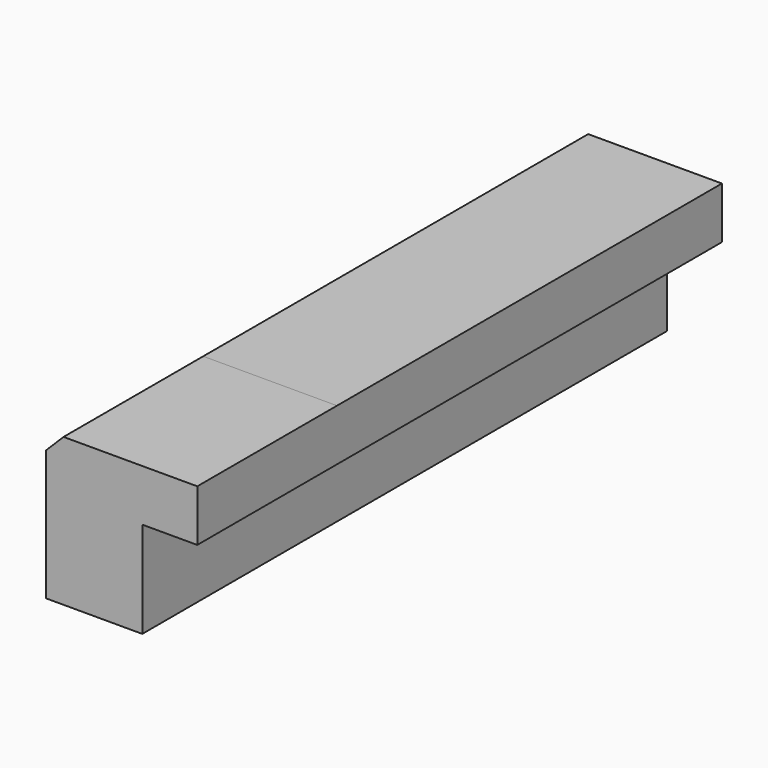
from build123d import *

# Parameters (mm, degrees)
F1_DEPTH = 25.4
F2_SIZE  = 2.54
F3_DEPTH = 70.0024


with BuildPart() as f1:
    # F0 (on Front) → F1 (new body)
    with BuildSketch(Plane.XZ):
        Polygon((-34.545804, 37.978911), (-34.545804, 16.473787), (-20.550404, 16.473787), (-20.550404, 30.469187), (-12.549404, 30.469187), (-12.549404, 37.978911), align=None)
    extrude(amount=F1_DEPTH)

    # F2
    f2_edges = [f1.edges().sort_by_distance(p)[0] for p in [
        (-34.545804, -12.7, 37.978911),
    ]]
    chamfer(f2_edges, length=F2_SIZE)

    # F1_face (on face) → F3 (join)
    with BuildSketch(Plane(origin=(-25.645894, 0, 28.312065), x_dir=(1, 0, 0), z_dir=(0, 1, 0))):
        Polygon((-6.35991, -9.666845), (13.09649, -9.666845), (13.09649, -2.157121), (5.09549, -2.157121), (5.09549, 11.838279), (-8.89991, 11.838279), (-8.89991, -7.126845), align=None)
    extrude(amount=F3_DEPTH)


solid = f1.part
